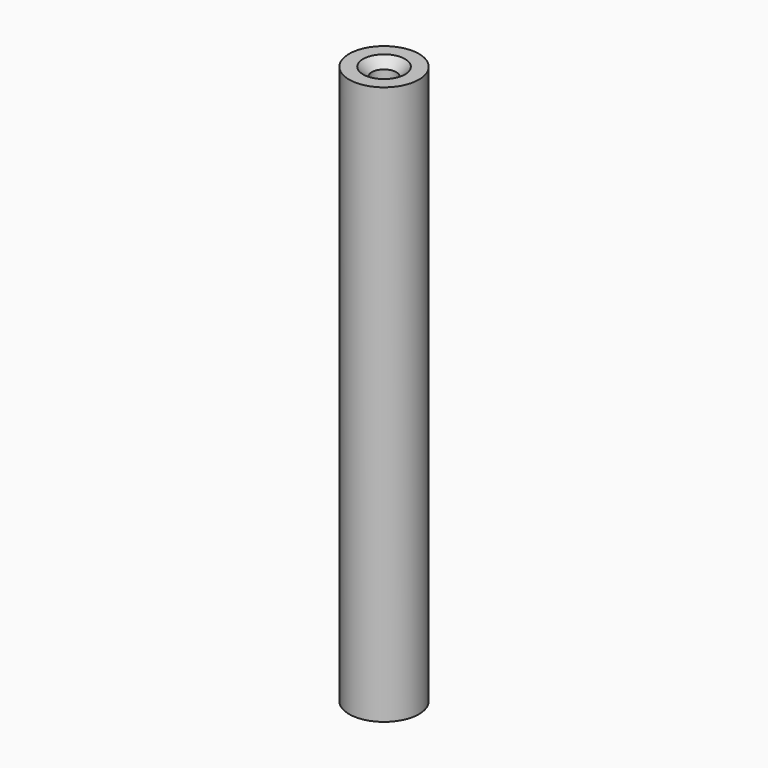
from build123d import *

# Parameters (mm, degrees)
SKETCH_R     = 4
SKETCH_R_2   = 1.4
PAD_DEPTH    = 64
CHAMFER_SIZE = 1


with BuildPart() as part:
    # Sketch → Pad (new body)
    with BuildSketch(Plane.XY):
        Circle(SKETCH_R)
        Circle(SKETCH_R_2, mode=Mode.SUBTRACT)
    extrude(amount=PAD_DEPTH)

    # Chamfer
    chamfer_edges = [part.edges().sort_by_distance(p)[0] for p in [
        (-1.4, 0, 64),
        (-1.4, 0, 0),
    ]]
    chamfer(chamfer_edges, length=CHAMFER_SIZE)


solid = part.part
